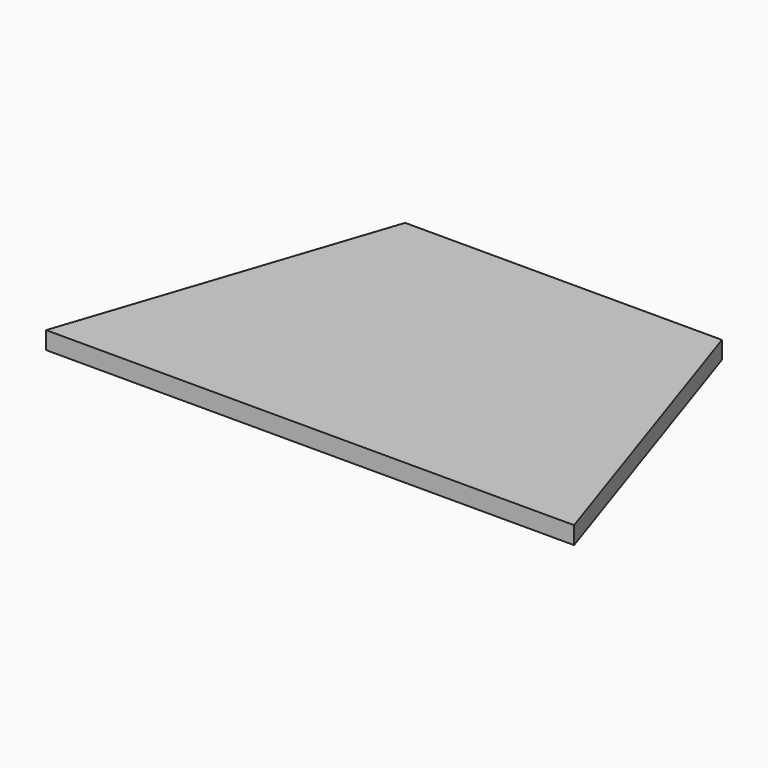
from build123d import *

# Parameters (mm, degrees)
PAD_DEPTH = 203.2


with BuildPart() as part:
    # Sketch → Pad (new body)
    with BuildSketch(Plane.XY):
        Polygon((-3048, -1828.8), (3048, -1828.8), (1828.8, 1828.8), (-1828.8, 1828.8), align=None)
    extrude(amount=PAD_DEPTH)


solid = part.part
